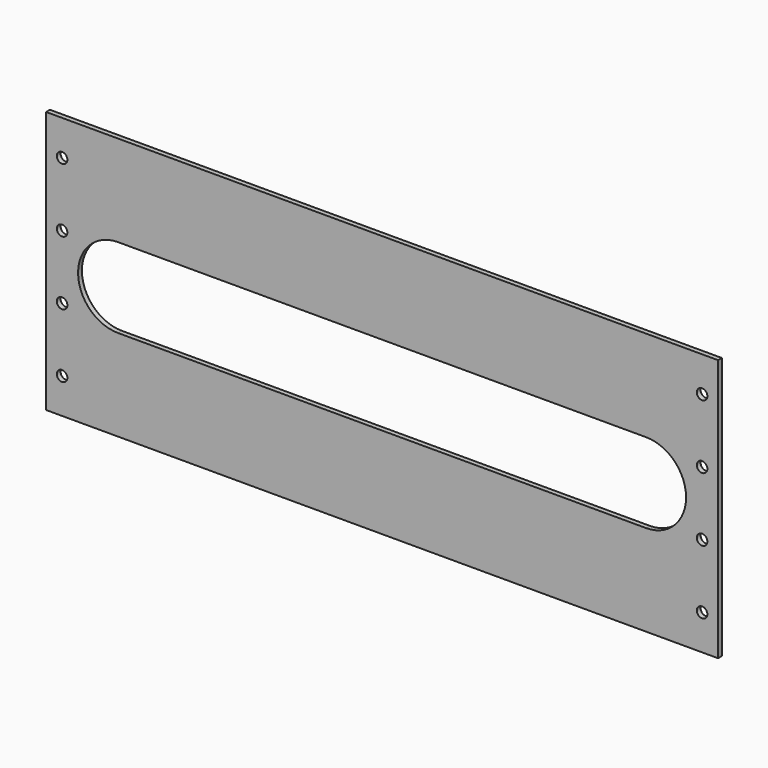
from build123d import *

# Parameters (mm, degrees)
SKETCH_W     = 210
SKETCH_H     = 82
SKETCH_R     = 1.65
PAD_DEPTH    = 1.5
POCKET_DEPTH = 1.501


with BuildPart() as part:
    # Sketch → Pad (new body)
    with BuildSketch(Plane.XZ):
        Rectangle(SKETCH_W, SKETCH_H)
        with Locations((100, 30)):
            Circle(SKETCH_R, mode=Mode.SUBTRACT)
        with Locations((100, 10)):
            Circle(SKETCH_R, mode=Mode.SUBTRACT)
        with Locations((100, -30)):
            Circle(SKETCH_R, mode=Mode.SUBTRACT)
        with Locations((100, -10)):
            Circle(SKETCH_R, mode=Mode.SUBTRACT)
        with Locations((-100, 30)):
            Circle(SKETCH_R, mode=Mode.SUBTRACT)
        with Locations((-100, 10)):
            Circle(SKETCH_R, mode=Mode.SUBTRACT)
        with Locations((-100, -30)):
            Circle(SKETCH_R, mode=Mode.SUBTRACT)
        with Locations((-100, -10)):
            Circle(SKETCH_R, mode=Mode.SUBTRACT)
    extrude(amount=PAD_DEPTH)

    # Sketch002 → Pocket (cut, through all)
    with BuildSketch(Plane.XZ.offset(1.5)):
        with BuildLine():
            ThreePointArc((-82.5, 12.5), (-95, 0), (-82.5, -12.5))
            Line((-82.5, -12.5), (82.5, -12.5))
            ThreePointArc((82.5, -12.5), (95, 0), (82.5, 12.5))
            Line((-82.5, 12.5), (82.5, 12.5))
        make_face()
    extrude(amount=-POCKET_DEPTH, mode=Mode.SUBTRACT)


solid = part.part
